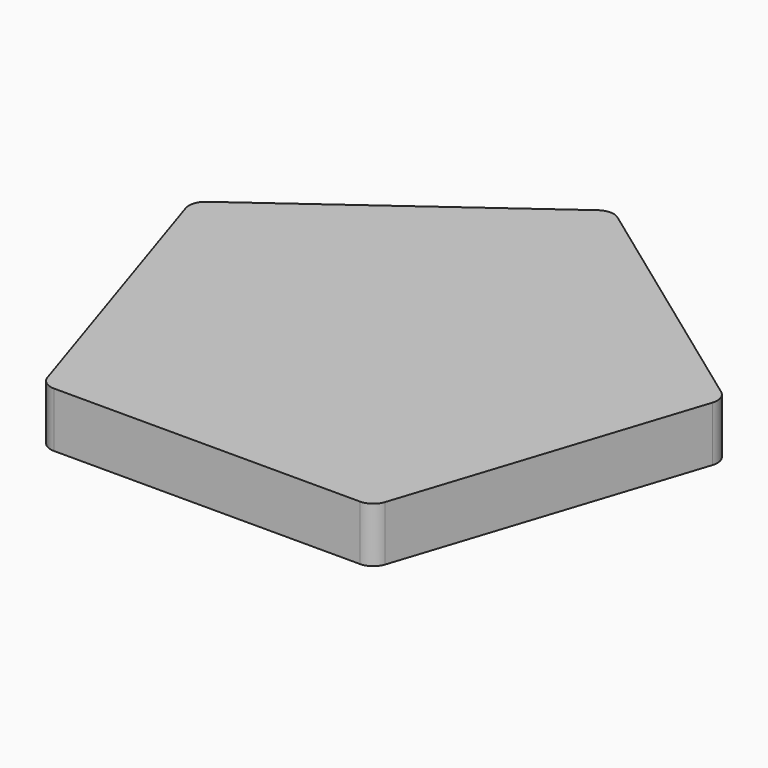
from build123d import *

# Parameters (mm, degrees)
PAD_DEPTH = 10
FILLET_R  = 3


with BuildPart() as part:
    # Sketch → Pad (new body)
    with BuildSketch(Plane.XY):
        Polygon((0, 51.039049), (-48.54102, 15.771933), (-30, -41.291458), (30, -41.291458), (48.54102, 15.771933), align=None)
    extrude(amount=PAD_DEPTH)

    # Fillet
    fillet_edges = [part.edges().sort_by_distance(p)[0] for p in [
        (48.54102, 15.771933, 5),
        (0, 51.039049, 5),
        (-48.54102, 15.771933, 5),
        (-30, -41.291458, 5),
        (30, -41.291458, 5),
    ]]
    fillet(fillet_edges, radius=FILLET_R)


solid = part.part
